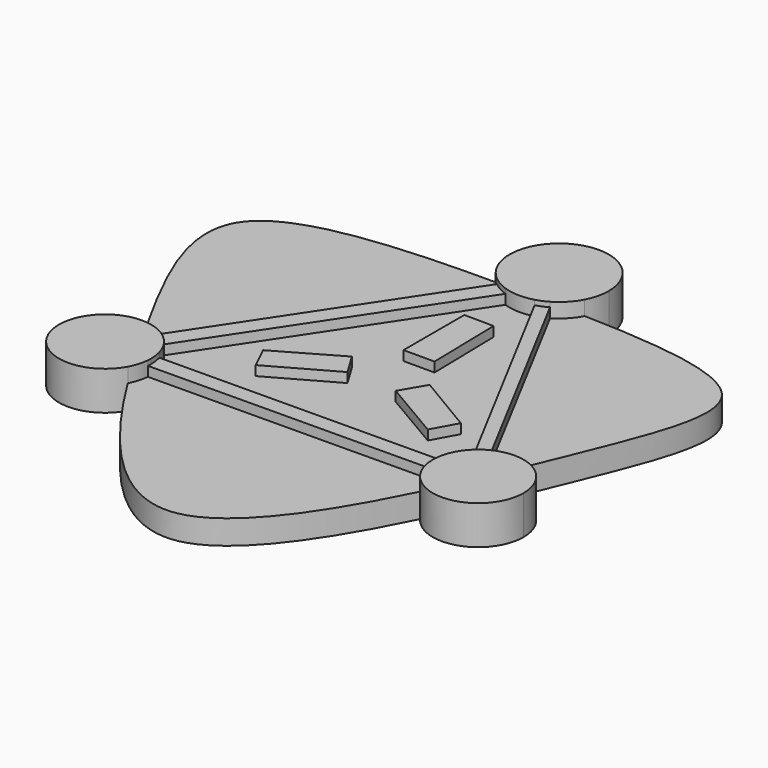
from build123d import *

# Parameters (mm, degrees)
F1_DEPTH = 2.54
F2_DEPTH = 3.556
F3_DEPTH = 4.064


with BuildPart() as f1:
    # F0 (on Top) → F1 (new body)
    with BuildSketch(Plane.XY):
        with BuildLine():
            ThreePointArc((-4.6630981009, 23.0576099927), (-6.2409645721, 22.860472595), (-7.8046054884, 23.1495276747))
            Line((-7.8046054884, 23.1495276747), (-24.0416144553, -1.3245914444))
            ThreePointArc((-24.0416144553, -1.3245914444), (-23.3138138733, -2.2848777795), (-22.8464301162, -3.3954613901))
            Line((-22.8464301162, -3.3954613901), (6.6606822161, -3.1671756941))
            ThreePointArc((6.6606822161, -3.1671756941), (7.1745992451, -1.8858915335), (8.0348610996, -0.8061928003))
            Line((8.0348610996, -0.8061928003), (-4.6630981009, 23.0576099927))
        make_face()
        Polygon((-15.8743415506, 0.51123949), (-17.0506863953, 2.947188482), (-10.6613747776, 6.6125662997), (-9.2262719276, 4.2351581635), align=None, mode=Mode.SUBTRACT)
        Polygon((-4.0678573438, 4.1093348098), (-2.5615811887, 6.6748808586), (3.6771709565, 2.9596772511), (2.264362858, 0.3915795571), align=None, mode=Mode.SUBTRACT)
        Polygon((-8.0818189308, 10.1467873901), (-8.0818189308, 18.1188309025), (-4.9913643151, 18.0870166502), (-4.8323459923, 10.1467873901), align=None, mode=Mode.SUBTRACT)
        with BuildLine():
            Line((9.2744107453, -3.1357299984), (8.0348610996, -0.8061928003))
            ThreePointArc((8.0348610996, -0.8061928003), (7.1745992451, -1.8858915335), (6.6606822161, -3.1671756941))
            Line((6.6606822161, -3.1671756941), (9.2693157423, -3.1469936542))
            Line((9.2693157423, -3.1469936542), (9.2744107453, -3.1357299984))
        make_face()
        with BuildLine():
            ThreePointArc((-22.8464301162, -3.3954613901), (-23.3138138733, -2.2848777795), (-24.0416144553, -1.3245914444))
            Line((-24.0416144553, -1.3245914444), (-25.4220212793, -3.4052850691))
            Line((-25.4220212793, -3.4052850691), (-25.4161386089, -3.4153422814))
            Line((-25.4161386089, -3.4153422814), (-22.8464301162, -3.3954613901))
        make_face()
    extrude(amount=F1_DEPTH)


with BuildPart() as f1b:
    # F0 (on Top) → F1, piece 2 (new body)
    with BuildSketch(Plane.XY):
        with BuildLine():
            add(Edge.make_bspline(
                [(-1.4819762816, 25.6484124624), (6.6986011106, 25.4239870709), (20.3462642446, 24.0615429755), (15.8700444117, 12.6322818513), (11.7234724765, 2.4879806788), (10.8586227713, 0.4584006141)],
                knots=[0.1997317172, 0.1997317172, 0.1997317172, 0.1997317172, 0.3324978777, 0.4643106101, 0.4962019436, 0.4962019436, 0.4962019436, 0.4962019436], degree=3))
            ThreePointArc((-1.4819762816, 25.6484124624), (-2.3241219854, 24.471995484), (-3.457875844, 23.5732360714))
            Line((-3.457875844, 23.5732360714), (9.1111597711, -0.0482752659))
            ThreePointArc((9.1111597711, -0.0482752659), (9.9604350443, 0.2894092027), (10.8586227713, 0.4584006141))
        make_face()
    extrude(amount=F1_DEPTH)


with BuildPart() as f1c:
    # F0 (on Top) → F1, piece 3 (new body)
    with BuildSketch(Plane.XY):
        with BuildLine():
            ThreePointArc((-22.6841610167, -5.1018859941), (-22.8719423093, -6.0893979217), (-23.2601161425, -7.0166318167))
            add(Edge.make_bspline(
                [(7.4355185476, -7.0710028411), (3.5438886247, -14.9808993579), (-6.3714566512, -29.9304237376), (-17.9340153002, -15.5761614263), (-23.2601161425, -7.0166318167)],
                knots=[0.535267871, 0.535267871, 0.535267871, 0.535267871, 0.6600193188, 0.8017052217, 0.8017052217, 0.8017052217, 0.8017052217], degree=3))
            ThreePointArc((7.4355185476, -7.0710028411), (6.8627279114, -6.02806372), (6.566758563, -4.8755823674))
            Line((6.566758563, -4.8755823674), (-22.6841610167, -5.1018859941))
        make_face()
    extrude(amount=F1_DEPTH)


with BuildPart() as f1d:
    # F0 (on Top) → F1, piece 4 (new body)
    with BuildSketch(Plane.XY):
        with BuildLine():
            ThreePointArc((-9.413243583, 24.0601013281), (-10.1774941911, 24.846172121), (-10.7598903606, 25.7750429329))
            add(Edge.make_bspline(
                [(-33.6705009619, 21.3656310089), (-30.5455731412, 25.1995157512), (-20.6823038995, 25.7850214095), (-10.7598903606, 25.7750429329)],
                knots=[0, 0, 0, 0, 0.1515402513, 0.1515402513, 0.1515402513, 0.1515402513], degree=3))
            add(Edge.make_bspline(
                [(-27.4563565011, 0.12991348), (-27.8161971008, 0.771396026), (-33.0793394315, 10.2381580049), (-36.7326552198, 17.6087613589), (-33.6705009619, 21.3656310089)],
                knots=[0.8408235096, 0.8408235096, 0.8408235096, 0.8408235096, 0.8515038899, 1, 1, 1, 1], degree=3))
            ThreePointArc((-27.4563565011, 0.12991348), (-26.4868209399, 0.0234643115), (-25.5584577312, -0.2756550339))
            Line((-25.5584577312, -0.2756550339), (-9.413243583, 24.0601013281))
        make_face()
    extrude(amount=F1_DEPTH)


with BuildPart() as f2:
    # F0 (on Top) → F2 (new body)
    with BuildSketch(Plane.XY):
        with BuildLine():
            ThreePointArc((-7.8046054884, 23.1495276747), (-8.6497225296, 23.5327399286), (-9.413243583, 24.0601013281))
            Line((-9.413243583, 24.0601013281), (-25.5584577312, -0.2756550339))
            ThreePointArc((-25.5584577312, -0.2756550339), (-24.7494930119, -0.7270340296), (-24.0416144553, -1.3245914444))
            Line((-24.0416144553, -1.3245914444), (-7.8046054884, 23.1495276747))
        make_face()
    extrude(amount=F2_DEPTH)


with BuildPart() as f2b:
    # F0 (on Top) → F2, piece 2 (new body)
    with BuildSketch(Plane.XY):
        with BuildLine():
            ThreePointArc((-3.457875844, 23.5732360714), (-4.044168706, 23.2772807838), (-4.6630981009, 23.0576099927))
            Line((-4.6630981009, 23.0576099927), (8.0348610996, -0.8061928003))
            ThreePointArc((8.0348610996, -0.8061928003), (8.5466597389, -0.3898141051), (9.1111597711, -0.0482752659))
            Line((9.1111597711, -0.0482752659), (-3.457875844, 23.5732360714))
        make_face()
    extrude(amount=F2_DEPTH)


with BuildPart() as f2c:
    # F0 (on Top) → F2, piece 3 (new body)
    with BuildSketch(Plane.XY):
        with BuildLine():
            Line((6.6606822161, -3.1671756941), (-22.8464301162, -3.3954613901))
            ThreePointArc((-22.8464301162, -3.3954613901), (-22.7122797835, -4.0408617349), (-22.6672834673, -4.6985191293))
            ThreePointArc((-22.6672834673, -4.6985191293), (-22.6715046998, -4.9003790308), (-22.6841610167, -5.1018859941))
            Line((-22.6841610167, -5.1018859941), (6.566758563, -4.8755823674))
            ThreePointArc((6.566758563, -4.8755823674), (6.5362584152, -4.0171203775), (6.6606822161, -3.1671756941))
        make_face()
    extrude(amount=F2_DEPTH)


with BuildPart() as f2d:
    # F0 (on Top) → F2, piece 4 (new body)
    with BuildSketch(Plane.XY):
        Polygon((-4.9913643151, 18.0870166502), (-8.0818189308, 18.1188309025), (-8.0818189308, 10.1467873901), (-4.8323459923, 10.1467873901), align=None)
    extrude(amount=F2_DEPTH)


with BuildPart() as f2e:
    # F0 (on Top) → F2, piece 5 (new body)
    with BuildSketch(Plane.XY):
        Polygon((3.6771709565, 2.9596772511), (-2.5615811887, 6.6748808586), (-4.0678573438, 4.1093348098), (2.264362858, 0.3915795571), align=None)
    extrude(amount=F2_DEPTH)


with BuildPart() as f2f:
    # F0 (on Top) → F2, piece 6 (new body)
    with BuildSketch(Plane.XY):
        Polygon((-10.6613747776, 6.6125662997), (-17.0506863953, 2.947188482), (-15.8743415506, 0.51123949), (-9.2262719276, 4.2351581635), align=None)
    extrude(amount=F2_DEPTH)


with BuildPart() as f3:
    # F0 (on Top) → F3 (new body)
    with BuildSketch(Plane.XY):
        with BuildLine():
            add(Edge.make_bspline(
                [(-10.7598903606, 25.7750429329), (-9.9338328656, 25.7742122081), (-9.107365451, 25.7692542777), (-8.2843420404, 25.7616998728)],
                knots=[0.1515402513, 0.1515402513, 0.1515402513, 0.1515402513, 0.1641562302, 0.1641562302, 0.1641562302, 0.1641562302], degree=3))
            add(Edge.make_bspline(
                [(-8.2843420404, 25.7616998728), (-7.5487056314, 25.7549475798), (-6.8158206983, 25.7461209173), (-6.0884392904, 25.7363129654)],
                knots=[0.1641562302, 0.1641562302, 0.1641562302, 0.1641562302, 0.1754326694, 0.1754326694, 0.1754326694, 0.1754326694], degree=3))
            add(Edge.make_bspline(
                [(-6.0884392904, 25.7363129654), (-4.5210406381, 25.7151782893), (-2.979196963, 25.6894871105), (-1.4819762816, 25.6484124624)],
                knots=[0.1754326694, 0.1754326694, 0.1754326694, 0.1754326694, 0.1997317172, 0.1997317172, 0.1997317172, 0.1997317172], degree=3))
            ThreePointArc((-1.4819762816, 25.6484124624), (-1.0405225547, 26.8167654572), (-0.8904843638, 28.056692332))
            ThreePointArc((-0.8904843638, 28.056692332), (-7.2598420446, 33.121549159), (-10.7598903606, 25.7750429329))
        make_face()
        with BuildLine():
            add(Edge.make_bspline(
                [(-6.0884392904, 25.7363129654), (-4.5210406381, 25.7151782893), (-2.979196963, 25.6894871105), (-1.4819762816, 25.6484124624)],
                knots=[0.1754326694, 0.1754326694, 0.1754326694, 0.1754326694, 0.1997317172, 0.1997317172, 0.1997317172, 0.1997317172], degree=3))
            Line((-6.0884392904, 25.7363129654), (-4.6630981009, 23.0576099927))
            ThreePointArc((-4.6630981009, 23.0576099927), (-4.044168706, 23.2772807838), (-3.457875844, 23.5732360714))
            ThreePointArc((-3.457875844, 23.5732360714), (-2.3241219854, 24.471995484), (-1.4819762816, 25.6484124624))
        make_face()
        with BuildLine():
            add(Edge.make_bspline(
                [(-8.2843420404, 25.7616998728), (-7.5487056314, 25.7549475798), (-6.8158206983, 25.7461209173), (-6.0884392904, 25.7363129654)],
                knots=[0.1641562302, 0.1641562302, 0.1641562302, 0.1641562302, 0.1754326694, 0.1754326694, 0.1754326694, 0.1754326694], degree=3))
            Line((-8.2843420404, 25.7616998728), (-9.413243583, 24.0601013281))
            ThreePointArc((-9.413243583, 24.0601013281), (-8.6497225296, 23.5327399286), (-7.8046054884, 23.1495276747))
            Line((-7.8046054884, 23.1495276747), (-6.0884392904, 25.7363129654))
        make_face()
        with BuildLine():
            Line((-9.413243583, 24.0601013281), (-8.2843420404, 25.7616998728))
            add(Edge.make_bspline(
                [(-10.7598903606, 25.7750429329), (-9.9338328656, 25.7742122081), (-9.107365451, 25.7692542777), (-8.2843420404, 25.7616998728)],
                knots=[0.1515402513, 0.1515402513, 0.1515402513, 0.1515402513, 0.1641562302, 0.1641562302, 0.1641562302, 0.1641562302], degree=3))
            ThreePointArc((-10.7598903606, 25.7750429329), (-10.1774941911, 24.846172121), (-9.413243583, 24.0601013281))
        make_face()
        with BuildLine():
            Line((-4.6630981009, 23.0576099927), (-6.0884392904, 25.7363129654))
            Line((-6.0884392904, 25.7363129654), (-7.8046054884, 23.1495276747))
            ThreePointArc((-7.8046054884, 23.1495276747), (-6.2409645721, 22.860472595), (-4.6630981009, 23.0576099927))
        make_face()
    extrude(amount=F3_DEPTH)


with BuildPart() as f3b:
    # F0 (on Top) → F3, piece 2 (new body)
    with BuildSketch(Plane.XY):
        with BuildLine():
            ThreePointArc((16.040523848, -4.2781828726), (14.4933917754, -0.7679363751), (10.8586227713, 0.4584006141))
            add(Edge.make_bspline(
                [(10.8586227713, 0.4584006141), (10.5637178642, -0.2336654371), (10.2621792483, -0.9319358482), (9.9542651309, -1.6327582306)],
                knots=[0.4962019436, 0.4962019436, 0.4962019436, 0.4962019436, 0.5070765622, 0.5070765622, 0.5070765622, 0.5070765622], degree=3))
            add(Edge.make_bspline(
                [(9.9542651309, -1.6327582306), (9.7328930129, -2.1366082535), (9.5082255491, -2.6417773299), (9.2803586904, -3.1469082189)],
                knots=[0.5070765622, 0.5070765622, 0.5070765622, 0.5070765622, 0.5148947726, 0.5148947726, 0.5148947726, 0.5148947726], degree=3))
            add(Edge.make_bspline(
                [(9.2803586904, -3.1469082189), (9.0223449366, -3.7188681677), (8.7602292245, -4.2907791563), (8.4941508485, -4.8606708409)],
                knots=[0.5148947726, 0.5148947726, 0.5148947726, 0.5148947726, 0.523747336, 0.523747336, 0.523747336, 0.523747336], degree=3))
            add(Edge.make_bspline(
                [(8.4941508485, -4.8606708409), (8.1478821914, -5.6023155821), (7.794902423, -6.3405404588), (7.4355185476, -7.0710028411)],
                knots=[0.523747336, 0.523747336, 0.523747336, 0.523747336, 0.535267871, 0.535267871, 0.535267871, 0.535267871], degree=3))
            ThreePointArc((7.4355185476, -7.0710028411), (12.7529218904, -8.8016207134), (16.040523848, -4.2781828726))
        make_face()
        with BuildLine():
            add(Edge.make_bspline(
                [(10.8586227713, 0.4584006141), (10.5637178642, -0.2336654371), (10.2621792483, -0.9319358482), (9.9542651309, -1.6327582306)],
                knots=[0.4962019436, 0.4962019436, 0.4962019436, 0.4962019436, 0.5070765622, 0.5070765622, 0.5070765622, 0.5070765622], degree=3))
            ThreePointArc((10.8586227713, 0.4584006141), (9.9604350443, 0.2894092027), (9.1111597711, -0.0482752659))
            Line((9.1111597711, -0.0482752659), (9.9542651309, -1.6327582306))
        make_face()
        with BuildLine():
            ThreePointArc((9.1111597711, -0.0482752659), (8.5466597389, -0.3898141051), (8.0348610996, -0.8061928003))
            Line((8.0348610996, -0.8061928003), (9.2744107453, -3.1357299984))
            Line((9.2744107453, -3.1357299984), (9.9542651309, -1.6327582306))
            Line((9.9542651309, -1.6327582306), (9.1111597711, -0.0482752659))
        make_face()
        with BuildLine():
            Line((9.2744107453, -3.1357299984), (8.0348610996, -0.8061928003))
            ThreePointArc((8.0348610996, -0.8061928003), (7.1745992451, -1.8858915335), (6.6606822161, -3.1671756941))
            Line((6.6606822161, -3.1671756941), (9.2693157423, -3.1469936542))
            Line((9.2693157423, -3.1469936542), (9.2744107453, -3.1357299984))
        make_face()
        with BuildLine():
            Line((9.2693157423, -3.1469936542), (6.6606822161, -3.1671756941))
            ThreePointArc((6.6606822161, -3.1671756941), (6.5362584152, -4.0171203775), (6.566758563, -4.8755823674))
            Line((6.566758563, -4.8755823674), (8.4941508485, -4.8606708409))
            Line((8.4941508485, -4.8606708409), (9.2693157423, -3.1469936542))
        make_face()
        with BuildLine():
            ThreePointArc((6.566758563, -4.8755823674), (6.8627279114, -6.02806372), (7.4355185476, -7.0710028411))
            add(Edge.make_bspline(
                [(8.4941508485, -4.8606708409), (8.1478821914, -5.6023155821), (7.794902423, -6.3405404588), (7.4355185476, -7.0710028411)],
                knots=[0.523747336, 0.523747336, 0.523747336, 0.523747336, 0.535267871, 0.535267871, 0.535267871, 0.535267871], degree=3))
            Line((8.4941508485, -4.8606708409), (6.566758563, -4.8755823674))
        make_face()
        with BuildLine():
            add(Edge.make_bspline(
                [(9.2803586904, -3.1469082189), (9.0223449366, -3.7188681677), (8.7602292245, -4.2907791563), (8.4941508485, -4.8606708409)],
                knots=[0.5148947726, 0.5148947726, 0.5148947726, 0.5148947726, 0.523747336, 0.523747336, 0.523747336, 0.523747336], degree=3))
            Line((9.2803586904, -3.1469082189), (9.2693157423, -3.1469936542))
            Line((9.2693157423, -3.1469936542), (8.4941508485, -4.8606708409))
        make_face()
        with BuildLine():
            add(Edge.make_bspline(
                [(9.9542651309, -1.6327582306), (9.7328930129, -2.1366082535), (9.5082255491, -2.6417773299), (9.2803586904, -3.1469082189)],
                knots=[0.5070765622, 0.5070765622, 0.5070765622, 0.5070765622, 0.5148947726, 0.5148947726, 0.5148947726, 0.5148947726], degree=3))
            Line((9.9542651309, -1.6327582306), (9.2744107453, -3.1357299984))
            Line((9.2744107453, -3.1357299984), (9.2803586904, -3.1469082189))
        make_face()
    extrude(amount=F3_DEPTH)


with BuildPart() as f3c:
    # F0 (on Top) → F3, piece 3 (new body)
    with BuildSketch(Plane.XY):
        with BuildLine():
            add(Edge.make_bspline(
                [(-26.4588086965, -1.6327582306), (-26.7965816425, -1.0415865773), (-27.1292357806, -0.4532398186), (-27.4563565011, 0.12991348)],
                knots=[0.8311142836, 0.8311142836, 0.8311142836, 0.8311142836, 0.8408235096, 0.8408235096, 0.8408235096, 0.8408235096], degree=3))
            ThreePointArc((-27.4563565011, 0.12991348), (-31.6597448399, -7.1434188848), (-23.2601161425, -7.0166318167))
            add(Edge.make_bspline(
                [(-23.2601161425, -7.0166318167), (-23.6519614722, -6.3869006492), (-24.039354187, -5.7521561255), (-24.421781211, -5.1153293237)],
                knots=[0.8017052217, 0.8017052217, 0.8017052217, 0.8017052217, 0.8121291624, 0.8121291624, 0.8121291624, 0.8121291624], degree=3))
            add(Edge.make_bspline(
                [(-24.421781211, -5.1153293237), (-24.7614781399, -4.5496577178), (-25.0972570567, -3.9823431601), (-25.428758369, -3.4154399158)],
                knots=[0.8121291624, 0.8121291624, 0.8121291624, 0.8121291624, 0.8213883947, 0.8213883947, 0.8213883947, 0.8213883947], degree=3))
            add(Edge.make_bspline(
                [(-25.428758369, -3.4154399158), (-25.7769670388, -2.8199652758), (-26.120456064, -2.2249444536), (-26.4588086965, -1.6327582306)],
                knots=[0.8213883947, 0.8213883947, 0.8213883947, 0.8213883947, 0.8311142836, 0.8311142836, 0.8311142836, 0.8311142836], degree=3))
        make_face()
        with BuildLine():
            Line((-26.4588086965, -1.6327582306), (-25.5584577312, -0.2756550339))
            ThreePointArc((-25.5584577312, -0.2756550339), (-26.4868209399, 0.0234643115), (-27.4563565011, 0.12991348))
            add(Edge.make_bspline(
                [(-26.4588086965, -1.6327582306), (-26.7965816425, -1.0415865773), (-27.1292357806, -0.4532398186), (-27.4563565011, 0.12991348)],
                knots=[0.8311142836, 0.8311142836, 0.8311142836, 0.8311142836, 0.8408235096, 0.8408235096, 0.8408235096, 0.8408235096], degree=3))
        make_face()
        with BuildLine():
            ThreePointArc((-24.0416144553, -1.3245914444), (-24.7494930119, -0.7270340296), (-25.5584577312, -0.2756550339))
            Line((-25.5584577312, -0.2756550339), (-26.4588086965, -1.6327582306))
            Line((-26.4588086965, -1.6327582306), (-25.4220212793, -3.4052850691))
            Line((-25.4220212793, -3.4052850691), (-24.0416144553, -1.3245914444))
        make_face()
        with BuildLine():
            ThreePointArc((-22.8464301162, -3.3954613901), (-23.3138138733, -2.2848777795), (-24.0416144553, -1.3245914444))
            Line((-24.0416144553, -1.3245914444), (-25.4220212793, -3.4052850691))
            Line((-25.4220212793, -3.4052850691), (-25.4161386089, -3.4153422814))
            Line((-25.4161386089, -3.4153422814), (-22.8464301162, -3.3954613901))
        make_face()
        with BuildLine():
            ThreePointArc((-22.6672834673, -4.6985191293), (-22.7122797835, -4.0408617349), (-22.8464301162, -3.3954613901))
            Line((-22.8464301162, -3.3954613901), (-25.4161386089, -3.4153422814))
            Line((-25.4161386089, -3.4153422814), (-24.421781211, -5.1153293237))
            Line((-24.421781211, -5.1153293237), (-22.6841610167, -5.1018859941))
            ThreePointArc((-22.6841610167, -5.1018859941), (-22.6715046998, -4.9003790308), (-22.6672834673, -4.6985191293))
        make_face()
        with BuildLine():
            add(Edge.make_bspline(
                [(-23.2601161425, -7.0166318167), (-23.6519614722, -6.3869006492), (-24.039354187, -5.7521561255), (-24.421781211, -5.1153293237)],
                knots=[0.8017052217, 0.8017052217, 0.8017052217, 0.8017052217, 0.8121291624, 0.8121291624, 0.8121291624, 0.8121291624], degree=3))
            ThreePointArc((-23.2601161425, -7.0166318167), (-22.8719423093, -6.0893979217), (-22.6841610167, -5.1018859941))
            Line((-22.6841610167, -5.1018859941), (-24.421781211, -5.1153293237))
        make_face()
        with BuildLine():
            Line((-25.4220212793, -3.4052850691), (-26.4588086965, -1.6327582306))
            add(Edge.make_bspline(
                [(-25.428758369, -3.4154399158), (-25.7769670388, -2.8199652758), (-26.120456064, -2.2249444536), (-26.4588086965, -1.6327582306)],
                knots=[0.8213883947, 0.8213883947, 0.8213883947, 0.8213883947, 0.8311142836, 0.8311142836, 0.8311142836, 0.8311142836], degree=3))
            Line((-25.428758369, -3.4154399158), (-25.4220212793, -3.4052850691))
        make_face()
        with BuildLine():
            Line((-25.4161386089, -3.4153422814), (-25.428758369, -3.4154399158))
            add(Edge.make_bspline(
                [(-24.421781211, -5.1153293237), (-24.7614781399, -4.5496577178), (-25.0972570567, -3.9823431601), (-25.428758369, -3.4154399158)],
                knots=[0.8121291624, 0.8121291624, 0.8121291624, 0.8121291624, 0.8213883947, 0.8213883947, 0.8213883947, 0.8213883947], degree=3))
            Line((-24.421781211, -5.1153293237), (-25.4161386089, -3.4153422814))
        make_face()
    extrude(amount=F3_DEPTH)


solid = Compound([f1.part, f1b.part, f1c.part, f1d.part, f2.part, f2b.part, f2c.part, f2d.part, f2e.part, f2f.part, f3.part, f3b.part, f3c.part])
